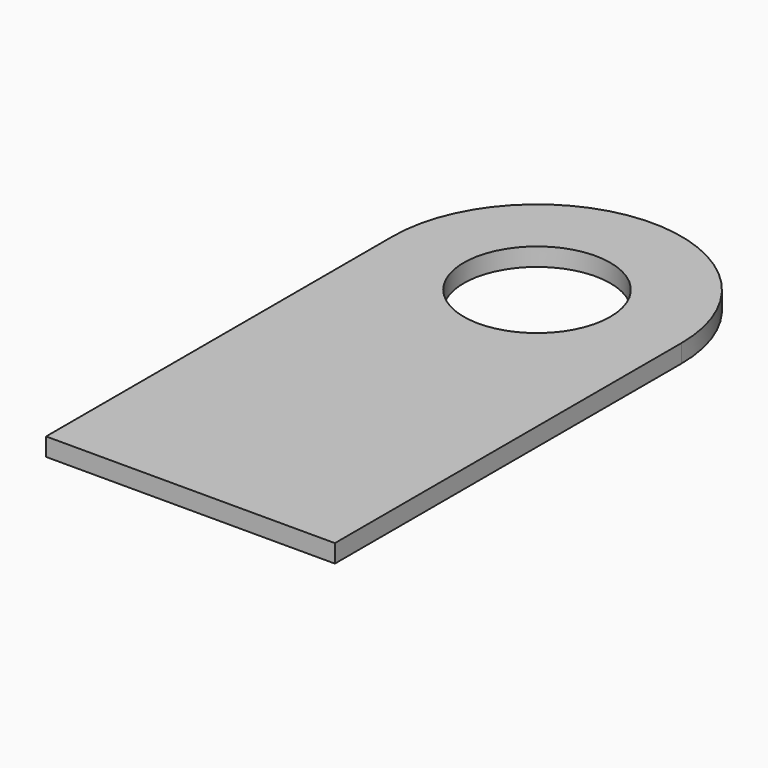
from build123d import *

# Parameters (mm, degrees)
F0_R     = 25.781
F1_DEPTH = 6.35


with BuildPart() as f1:
    # F0 (on Top) → F1 (new body)
    with BuildSketch(Plane.XY):
        with BuildLine():
            Line((0, 152.4), (0, 0))
            Line((0, 0), (101.6, 0))
            Line((101.6, 0), (101.6, 152.4))
            ThreePointArc((101.6, 152.4), (50.8, 203.2), (0, 152.4))
        make_face()
        with Locations((50.8, 152.4)):
            Circle(F0_R, mode=Mode.SUBTRACT)
    extrude(amount=F1_DEPTH)


solid = f1.part
